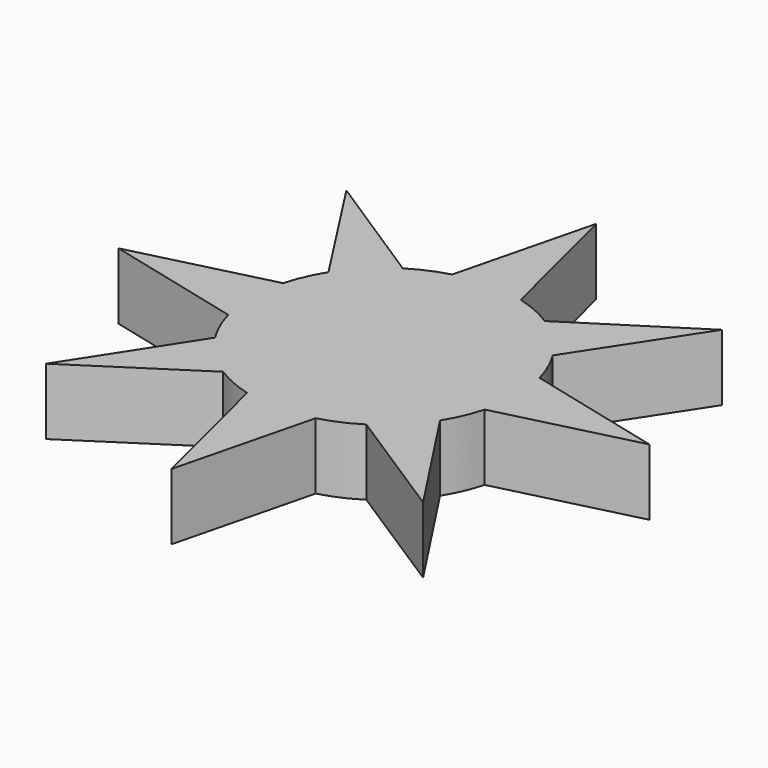
from build123d import *

# Parameters (mm, degrees)
F0_R     = 10
F1_DEPTH = 5
F2_R     = 0.835
F3_DEPTH = 5.001
F3_TAPER = -3
F5_DEPTH = 5


with BuildPart() as f1:
    # F0 (on Top) → F1 (new body)
    with BuildSketch(Plane.XY):
        Circle(F0_R)
    extrude(amount=F1_DEPTH)

    # F2 (on face) → F3 (cut, through all)
    with BuildSketch(Plane.XY.offset(5)):
        Circle(F2_R)
    extrude(amount=-F3_DEPTH, taper=F3_TAPER, mode=Mode.SUBTRACT)

    # F4 (on face) → F5 (join)
    with BuildSketch(Plane(origin=(0, 0, 0), x_dir=(1, 0, 0), z_dir=(0, 0, -1))):
        Polygon((0, 20), (-3.2380346414, 7.0478614342), (-14.1421356237, 14.1421356237), (-7.0869063945, 3.2282734014), (-20, 0), (-7.0869063945, -3.2282734014), (-14.1421356237, -14.1421356237), (-3.2282734014, -7.0869063945), (0, -20), (3.2338841378, -7.0644634487), (14.21151183, -14.0724174009), (7.1094684771, -3.2226328807), (20, 0), (7.1094684771, 3.2226328807), (14.21151183, 14.0724174009), (3.2436714877, 7.0253140492), align=None)
    extrude(amount=-F5_DEPTH)


solid = f1.part
